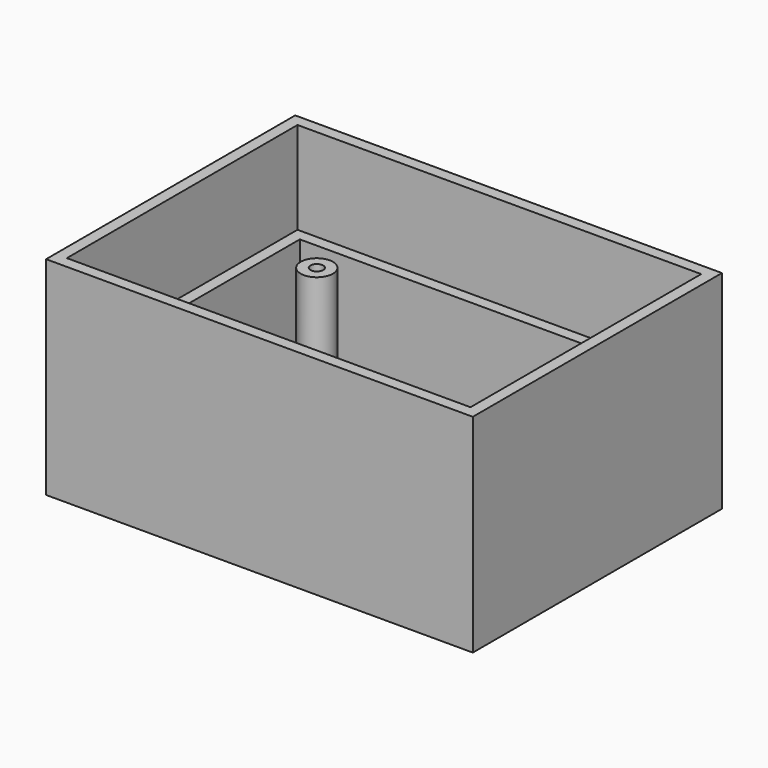
from build123d import *

# Parameters (mm, degrees)
F0_W     = 93.98
F0_H     = 68.58
F1_DEPTH = 45.72
F2_W     = 83.82
F2_H     = 58.42
F3_DEPTH = 41.91
F4_R     = 3.556
F4_R_2   = 1.397
F5_DEPTH = 21.59
F6_W     = 88.9
F6_H     = 63.5
F7_DEPTH = 20.32


with BuildPart() as f1:
    # F0 (on Top) → F1 (new body)
    with BuildSketch(Plane.XY):
        with Locations((-76.07475, 20.398488)):
            Rectangle(F0_W, F0_H)
    extrude(amount=F1_DEPTH)

    # F2 (on face) → F3 (cut)
    with BuildSketch(Plane.XY.offset(45.72)):
        with Locations((-76.07475, 20.398488)):
            Rectangle(F2_W, F2_H)
    extrude(amount=-F3_DEPTH, mode=Mode.SUBTRACT)

    # F4 (on face) → F5 (join)
    with BuildSketch(Plane.XY.offset(3.81)):
        with Locations((-109.09475, 43.18)):
            Circle(F4_R)
        with Locations((-109.09475, 43.18)):
            Circle(F4_R_2, mode=Mode.SUBTRACT)
        with Locations((-40.51475, 43.18)):
            Circle(F4_R)
        with Locations((-40.51475, 43.18)):
            Circle(F4_R_2, mode=Mode.SUBTRACT)
        with Locations((-109.09475, 0)):
            Circle(F4_R)
        with Locations((-109.09475, 0)):
            Circle(F4_R_2, mode=Mode.SUBTRACT)
        with Locations((-40.51475, 0)):
            Circle(F4_R)
        with Locations((-40.51475, 0)):
            Circle(F4_R_2, mode=Mode.SUBTRACT)
    extrude(amount=F5_DEPTH)

    # F6 (on face) → F7 (cut)
    with BuildSketch(Plane.XY.offset(45.72)):
        with Locations((-76.07475, 20.398488)):
            Rectangle(F6_W, F6_H)
    extrude(amount=-F7_DEPTH, mode=Mode.SUBTRACT)


solid = f1.part
